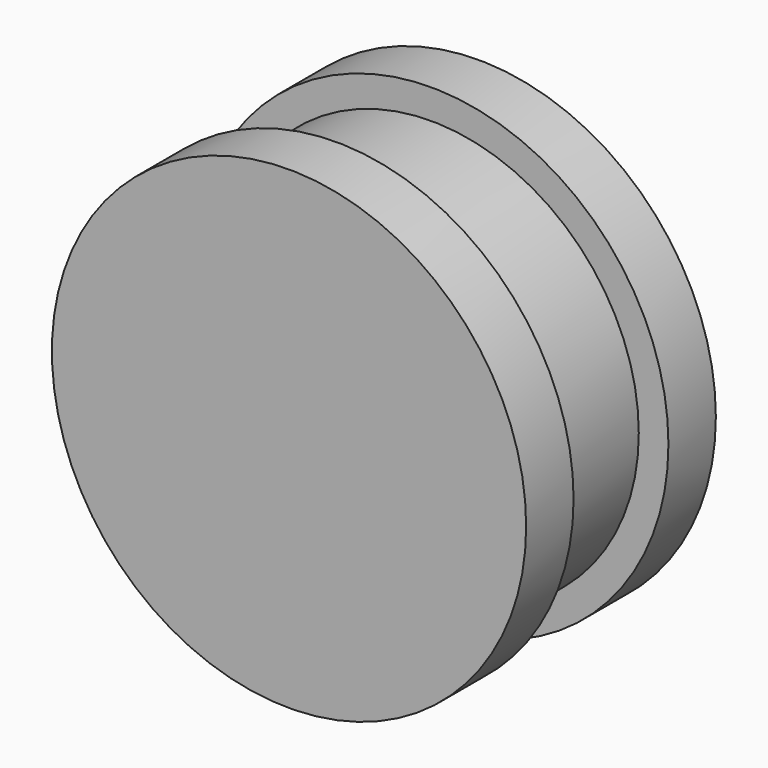
from build123d import *

# Parameters (mm, degrees)
F0_R     = 25.4
F1_DEPTH = 6.35
F2_R     = 22.225
F3_DEPTH = 12.7
F4_R     = 6.35
F5_DEPTH = 19.051
F6_R     = 25.4
F7_DEPTH = 6.35


with BuildPart() as f1:
    # F0 (on Front) → F1 (new body)
    with BuildSketch(Plane.XZ):
        Circle(F0_R)
    extrude(amount=F1_DEPTH)

    # F2 (on face) → F3 (join)
    with BuildSketch(Plane.XZ.offset(6.35)):
        Circle(F2_R)
    extrude(amount=F3_DEPTH)

    # F4 (on face) → F5 (cut, through all)
    with BuildSketch(Plane.XZ.offset(19.05)):
        Circle(F4_R)
    extrude(amount=-F5_DEPTH, mode=Mode.SUBTRACT)

    # F6 (on face) → F7 (join)
    with BuildSketch(Plane.XZ.offset(19.05)):
        Circle(F6_R)
    extrude(amount=F7_DEPTH)


solid = f1.part
